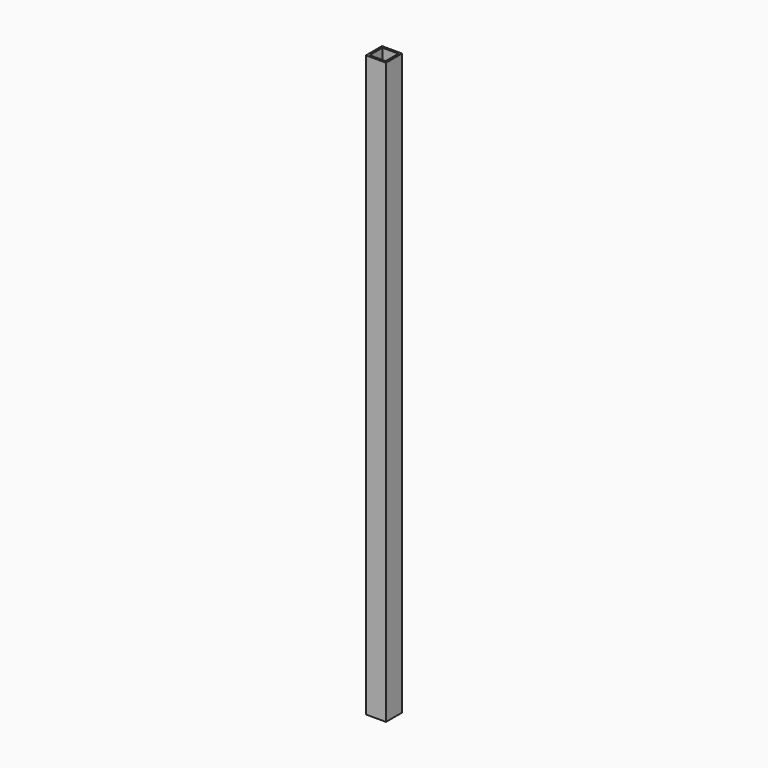
from build123d import *

# Parameters (mm, degrees)
SKETCH_W   = 15
SKETCH_H   = 15
SKETCH_W_2 = 12
SKETCH_H_2 = 12
PAD_DEPTH  = 434


with BuildPart() as part:
    # Sketch → Pad (new body)
    with BuildSketch(Plane.XY):
        Rectangle(SKETCH_W, SKETCH_H)
        Rectangle(SKETCH_W_2, SKETCH_H_2, mode=Mode.SUBTRACT)
    extrude(amount=PAD_DEPTH)


solid = part.part
